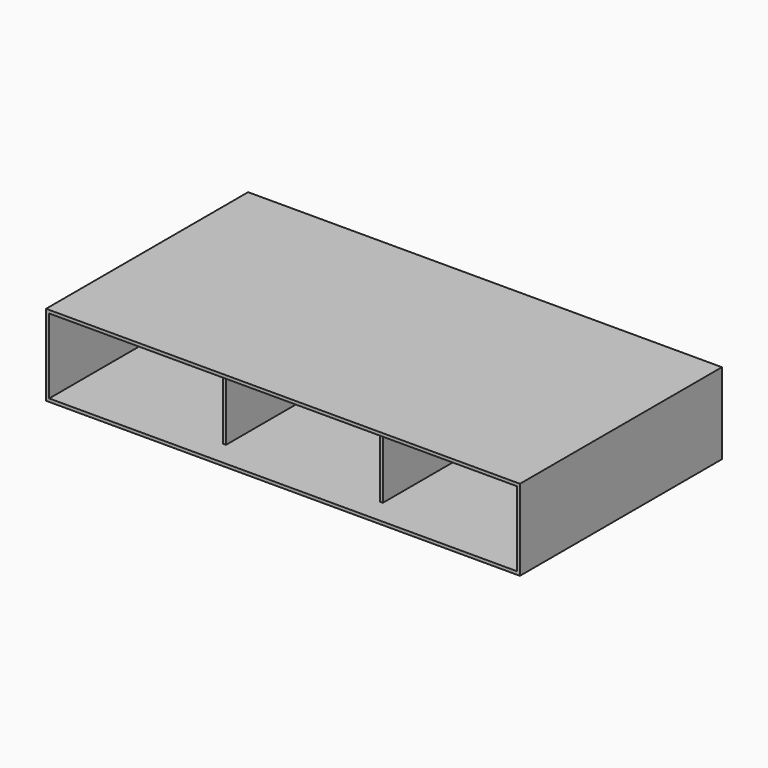
from build123d import *

# Parameters (mm, degrees)
F0_W     = 1930.4
F0_H     = 1028.7
F1_DEPTH = 12.7
F2_W     = 12.7
F2_H     = 1028.7
F2_H_2   = 927.1
F3_DEPTH = 304.8
F4_W     = 1930.4
F4_H     = 1028.7
F5_DEPTH = 12.7
F6_W     = 1930.4
F6_H     = 330.2
F7_DEPTH = 12.7


with BuildPart() as f1:
    # F0 (on Top) → F1 (new body)
    with BuildSketch(Plane.XY):
        with Locations((965.2, 514.35)):
            Rectangle(F0_W, F0_H)
    extrude(amount=F1_DEPTH)

    # F2 (on face) → F3 (join)
    with BuildSketch(Plane.XY.offset(12.7)):
        with Locations((6.35, 514.35)):
            Rectangle(F2_W, F2_H)
        with Locations((1924.05, 514.35)):
            Rectangle(F2_W, F2_H)
        with Locations((645.414, 565.15)):
            Rectangle(F2_W, F2_H_2)
        with Locations((1284.478, 565.15)):
            Rectangle(F2_W, F2_H_2)
    extrude(amount=F3_DEPTH)

    # F4 (on face) → F5 (join)
    with BuildSketch(Plane.XY.offset(317.5)):
        with Locations((965.2, 514.35)):
            Rectangle(F4_W, F4_H)
    extrude(amount=F5_DEPTH)

    # F6 (on face) → F7 (join)
    with BuildSketch(Plane(origin=(0, 1028.7, 0), x_dir=(-1, 0, 0), z_dir=(0, 1, 0))):
        with Locations((-965.2, 165.1)):
            Rectangle(F6_W, F6_H)
    extrude(amount=-F7_DEPTH)


solid = f1.part
